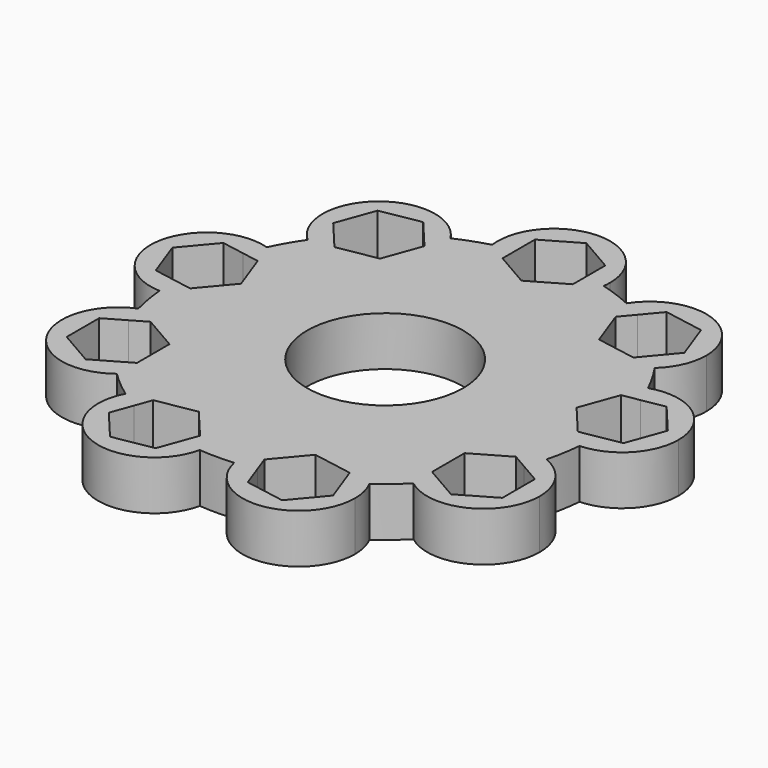
from build123d import *

# Parameters (mm, degrees)
F0_R     = 11.1
F1_DEPTH = 7


with BuildPart() as f1:
    # F0 (on Top) → F1 (new body)
    with BuildSketch(Plane.XY):
        with BuildLine():
            ThreePointArc((26.4810619211, 12.5997758673), (26.7965639879, 12.722787945), (27.1169892554, 12.8323378121))
            ThreePointArc((27.1169892554, 12.8323378121), (25.9807621135, 15), (24.6716251629, 17.0678326633))
            ThreePointArc((24.6716251629, 17.0678326633), (24.4165395613, 16.8451111751), (24.1522569436, 16.6333844092))
            ThreePointArc((24.1522569436, 16.6333844092), (23.8477512735, 13.7685056173), (26.4810619211, 12.5997758673))
        make_face()
        with BuildLine():
            ThreePointArc((37.5442325904, 5.20944533), (34.2655699708, 11.6676938031), (27.1169892554, 12.8323378121))
            ThreePointArc((27.1169892554, 12.8323378121), (27.7245361912, 11.4608068208), (28.2627653008, 10.0606211314))
            Line((28.2627653008, 10.0606211314), (31.5188868085, 10.6347632057))
            Line((31.5188868085, 10.6347632057), (35.2300228034, 6.2120035512))
            Line((35.2300228034, 6.2120035512), (33.2553685852, 0.7866856755))
            Line((33.2553685852, 0.7866856755), (29.9992470775, 0.2125436013))
            ThreePointArc((29.9992470775, 0.2125436013), (29.9998117688, 0.1062724674), (30, 0))
            ThreePointArc((30, 0), (29.9676207061, -1.3934522655), (29.8705527189, -2.7838965977))
            ThreePointArc((29.8705527189, -2.7838965977), (35.3153053255, -0.3308362049), (37.5442325904, 5.20944533))
        make_face()
        with BuildLine():
            ThreePointArc((26.4810619211, 12.5997758673), (26.8071092732, 12.6939524656), (27.1169892554, 12.8323378121))
            ThreePointArc((27.1169892554, 12.8323378121), (26.7965639879, 12.722787945), (26.4810619211, 12.5997758673))
        make_face()
        with BuildLine():
            ThreePointArc((28.2627653008, 10.0606211314), (27.7245361912, 11.4608068208), (27.1169892554, 12.8323378121))
            ThreePointArc((27.1169892554, 12.8323378121), (26.8071092732, 12.6939524656), (26.4810619211, 12.5997758673))
            ThreePointArc((26.4810619211, 12.5997758673), (21.6657705663, 3.8202599087), (29.1934356258, -2.7828598124))
            ThreePointArc((29.1934356258, -2.7828598124), (29.5320302103, -2.7598421048), (29.8705527189, -2.7838965977))
            ThreePointArc((29.8705527189, -2.7838965977), (29.9676207061, -1.3934522655), (30, 0))
            ThreePointArc((30, 0), (29.9998117688, 0.1062724674), (29.9992470775, 0.2125436013))
            Line((29.9992470775, 0.2125436013), (27.5695783722, -0.2158725457))
            Line((27.5695783722, -0.2158725457), (23.8584423773, 4.2068871088))
            Line((23.8584423773, 4.2068871088), (25.8330965955, 9.6322049845))
            Line((25.8330965955, 9.6322049845), (28.2627653008, 10.0606211314))
        make_face()
        with BuildLine():
            ThreePointArc((24.1522569436, 16.6333844092), (24.3968399462, 16.8686613998), (24.6716251629, 17.0678326633))
            ThreePointArc((24.6716251629, 17.0678326633), (23.7876179503, 18.2797492393), (22.8441361281, 19.445962166))
            Line((22.8441361281, 19.445962166), (21.2582825088, 17.5560154179))
            Line((21.2582825088, 17.5560154179), (15.5724922958, 18.5585736391))
            Line((15.5724922958, 18.5585736391), (13.5978380776, 23.9838915148))
            Line((13.5978380776, 23.9838915148), (15.1836916969, 25.8738382629))
            ThreePointArc((15.1836916969, 25.8738382629), (13.8713622659, 26.6004757267), (12.5243511843, 27.2606057785))
            ThreePointArc((12.5243511843, 27.2606057785), (12.375921732, 26.9554094398), (12.1866905202, 26.6736867819))
            ThreePointArc((12.1866905202, 26.6736867819), (14.1413274131, 16.8529777486), (24.1522569436, 16.6333844092))
        make_face()
        with BuildLine():
            ThreePointArc((22.8441361281, 19.445962166), (23.7876179503, 18.2797492393), (24.6716251629, 17.0678326633))
            ThreePointArc((24.6716251629, 17.0678326633), (26.6015506384, 19.7489947422), (27.2836282906, 22.9813332936))
            ThreePointArc((27.2836282906, 22.9813332936), (21.5113831189, 30.6648942145), (12.5243511843, 27.2606057785))
            ThreePointArc((12.5243511843, 27.2606057785), (13.8713622659, 26.6004757267), (15.1836916969, 25.8738382629))
            Line((15.1836916969, 25.8738382629), (17.3089740724, 28.4066511692))
            Line((17.3089740724, 28.4066511692), (22.9947642854, 27.404092948))
            Line((22.9947642854, 27.404092948), (24.9694185036, 21.9787750724))
            Line((24.9694185036, 21.9787750724), (22.8441361281, 19.445962166))
        make_face()
        with BuildLine():
            ThreePointArc((24.1522569436, 16.6333844092), (24.4165395613, 16.8451111751), (24.6716251629, 17.0678326633))
            ThreePointArc((24.6716251629, 17.0678326633), (24.3968399462, 16.8686613998), (24.1522569436, 16.6333844092))
        make_face()
        with BuildLine():
            ThreePointArc((29.0212866821, -7.6003236322), (29.5442325904, -5.20944533), (29.8705527189, -2.7838965977))
            ThreePointArc((29.8705527189, -2.7838965977), (29.5319831983, -2.790545292), (29.1934356258, -2.7828598124))
            ThreePointArc((29.1934356258, -2.7828598124), (27.1186621586, -4.7817518193), (28.3846501448, -7.3697102065))
            ThreePointArc((28.3846501448, -7.3697102065), (28.7054093893, -7.4782783073), (29.0212866821, -7.6003236322))
        make_face()
        with BuildLine():
            ThreePointArc((29.1934356258, -2.7828598124), (29.5319831983, -2.790545292), (29.8705527189, -2.7838965977))
            ThreePointArc((29.8705527189, -2.7838965977), (29.5320302103, -2.7598421048), (29.1934356258, -2.7828598124))
        make_face()
        with BuildLine():
            ThreePointArc((12.1866905202, 26.6736867819), (12.3493084858, 26.9707203199), (12.5243511843, 27.2606057785))
            ThreePointArc((12.5243511843, 27.2606057785), (10.2606042998, 28.1907786236), (7.9285699986, 28.9333333333))
            ThreePointArc((7.9285699986, 28.9333333333), (7.876325704, 28.5987529108), (7.8099688151, 28.2666832062))
            ThreePointArc((7.8099688151, 28.2666832062), (9.4182125292, 25.8763262557), (12.1866905202, 26.6736867819))
        make_face()
        with BuildLine():
            ThreePointArc((12.1866905202, 26.6736867819), (12.375921732, 26.9554094398), (12.5243511843, 27.2606057785))
            ThreePointArc((12.5243511843, 27.2606057785), (12.3493084858, 26.9707203199), (12.1866905202, 26.6736867819))
        make_face()
        with BuildLine():
            ThreePointArc((33.9807621135, -15), (32.6262190786, -10.5460240542), (29.0212866821, -7.6003236322))
            ThreePointArc((29.0212866821, -7.6003236322), (28.6050915087, -9.0415009693), (28.1173769149, -10.4600724388))
            Line((28.1173769149, -10.4600724388), (30.9807621135, -12.1132486541))
            Line((30.9807621135, -12.1132486541), (30.9807621135, -17.8867513459))
            Line((30.9807621135, -17.8867513459), (25.9807621135, -20.7735026919))
            Line((25.9807621135, -20.7735026919), (23.1173769149, -19.1203264767))
            ThreePointArc((23.1173769149, -19.1203264767), (22.1327152821, -20.2519854395), (21.0927166835, -21.3330097011))
            ThreePointArc((21.0927166835, -21.3330097011), (29.5089086921, -22.1799847994), (33.9807621135, -15))
        make_face()
        with BuildLine():
            ThreePointArc((28.3846501448, -7.3697102065), (28.6949524576, -7.5071459448), (29.0212866821, -7.6003236322))
            ThreePointArc((29.0212866821, -7.6003236322), (28.7054093893, -7.4782783073), (28.3846501448, -7.3697102065))
        make_face()
        with BuildLine():
            ThreePointArc((28.1173769149, -10.4600724388), (28.6050915087, -9.0415009693), (29.0212866821, -7.6003236322))
            ThreePointArc((29.0212866821, -7.6003236322), (28.6949524576, -7.5071459448), (28.3846501448, -7.3697102065))
            ThreePointArc((28.3846501448, -7.3697102065), (19.0525588833, -11), (20.5746813298, -20.8969729997))
            ThreePointArc((20.5746813298, -20.8969729997), (20.848855327, -21.0969848163), (21.0927166835, -21.3330097011))
            ThreePointArc((21.0927166835, -21.3330097011), (22.1327152821, -20.2519854395), (23.1173769149, -19.1203264767))
            Line((23.1173769149, -19.1203264767), (20.9807621135, -17.8867513459))
            Line((20.9807621135, -17.8867513459), (20.9807621135, -12.1132486541))
            Line((20.9807621135, -12.1132486541), (25.9807621135, -9.2264973081))
            Line((25.9807621135, -9.2264973081), (28.1173769149, -10.4600724388))
        make_face()
        with BuildLine():
            ThreePointArc((7.8099688151, 28.2666832062), (7.8460971307, 28.6041307611), (7.9285699986, 28.9333333333))
            ThreePointArc((7.9285699986, 28.9333333333), (6.4723762266, 29.2934864088), (5, 29.5803989155))
            Line((5, 29.5803989155), (5, 27.1132486541))
            Line((5, 27.1132486541), (0, 24.2264973081))
            Line((0, 24.2264973081), (-5, 27.1132486541))
            Line((-5, 27.1132486541), (-5, 29.5803989155))
            ThreePointArc((-5, 29.5803989155), (-6.4723762266, 29.2934864088), (-7.9285699986, 28.9333333333))
            ThreePointArc((-7.9285699986, 28.9333333333), (-7.8460971307, 28.6041307611), (-7.8099688151, 28.2666832062))
            ThreePointArc((-7.8099688151, 28.2666832062), (0, 22), (7.8099688151, 28.2666832062))
        make_face()
        with BuildLine():
            ThreePointArc((5, 29.5803989155), (6.4723762266, 29.2934864088), (7.9285699986, 28.9333333333))
            ThreePointArc((7.9285699986, 28.9333333333), (7.9821225244, 29.4654721656), (8, 30))
            ThreePointArc((8, 30), (-0.5345278344, 37.9821225244), (-7.9285699986, 28.9333333333))
            ThreePointArc((-7.9285699986, 28.9333333333), (-6.4723762266, 29.2934864088), (-5, 29.5803989155))
            Line((-5, 29.5803989155), (-5, 32.8867513459))
            Line((-5, 32.8867513459), (0, 35.7735026919))
            Line((0, 35.7735026919), (5, 32.8867513459))
            Line((5, 32.8867513459), (5, 29.5803989155))
        make_face()
        with BuildLine():
            ThreePointArc((7.8099688151, 28.2666832062), (7.876325704, 28.5987529108), (7.9285699986, 28.9333333333))
            ThreePointArc((7.9285699986, 28.9333333333), (7.8460971307, 28.6041307611), (7.8099688151, 28.2666832062))
        make_face()
        with BuildLine():
            ThreePointArc((21.0927166835, -21.3330097011), (20.848855327, -21.0969848163), (20.5746813298, -20.8969729997))
            ThreePointArc((20.5746813298, -20.8969729997), (20.8290836854, -21.1204746035), (21.0927166835, -21.3330097011))
        make_face()
        with BuildLine():
            ThreePointArc((21.0927166835, -21.3330097011), (20.8290836854, -21.1204746035), (20.5746813298, -20.8969729997))
            ThreePointArc((20.5746813298, -20.8969729997), (17.7004496294, -21.0945744364), (17.0067451056, -23.8908269695))
            ThreePointArc((17.0067451056, -23.8908269695), (17.1826747124, -24.1801750278), (17.3462015346, -24.4767091808))
            ThreePointArc((17.3462015346, -24.4767091808), (19.2836282906, -22.9813332936), (21.0927166835, -21.3330097011))
        make_face()
        with BuildLine():
            ThreePointArc((-12.1866905202, 26.6736867819), (-9.4182125292, 25.8763262557), (-7.8099688151, 28.2666832062))
            ThreePointArc((-7.8099688151, 28.2666832062), (-7.876325704, 28.5987529108), (-7.9285699986, 28.9333333333))
            ThreePointArc((-7.9285699986, 28.9333333333), (-10.2606042998, 28.1907786236), (-12.5243511843, 27.2606057785))
            ThreePointArc((-12.5243511843, 27.2606057785), (-12.3493084858, 26.9707203199), (-12.1866905202, 26.6736867819))
        make_face()
        with BuildLine():
            ThreePointArc((-7.9285699986, 28.9333333333), (-7.876325704, 28.5987529108), (-7.8099688151, 28.2666832062))
            ThreePointArc((-7.8099688151, 28.2666832062), (-7.8460971307, 28.6041307611), (-7.9285699986, 28.9333333333))
        make_face()
        with BuildLine():
            ThreePointArc((17.3462015346, -24.4767091808), (17.1561084783, -24.195567335), (17.0067451056, -23.8908269695))
            ThreePointArc((17.0067451056, -23.8908269695), (7.5244431532, -20.6732376573), (2.3288049774, -29.2331602765))
            ThreePointArc((2.3288049774, -29.2331602765), (2.410269327, -29.5626138654), (2.4453640925, -29.9001704754))
            ThreePointArc((2.4453640925, -29.9001704754), (3.9369182409, -29.7405560601), (5.4186291728, -29.5065832974))
            Line((5.4186291728, -29.5065832974), (4.5748140868, -27.1882204024))
            Line((4.5748140868, -27.1882204024), (8.2859500816, -22.7654607479))
            Line((8.2859500816, -22.7654607479), (13.9717402946, -23.7680189691))
            Line((13.9717402946, -23.7680189691), (14.8155553806, -26.0863818642))
            ThreePointArc((14.8155553806, -26.0863818642), (16.1010065991, -25.3131899707), (17.3462015346, -24.4767091808))
        make_face()
        with BuildLine():
            ThreePointArc((17.3462015346, -24.4767091808), (17.1826747124, -24.1801750278), (17.0067451056, -23.8908269695))
            ThreePointArc((17.0067451056, -23.8908269695), (17.1561084783, -24.195567335), (17.3462015346, -24.4767091808))
        make_face()
        with BuildLine():
            ThreePointArc((-12.5243511843, 27.2606057785), (-12.375921732, 26.9554094398), (-12.1866905202, 26.6736867819))
            ThreePointArc((-12.1866905202, 26.6736867819), (-12.3493084858, 26.9707203199), (-12.5243511843, 27.2606057785))
        make_face()
        with BuildLine():
            ThreePointArc((-11.2836282906, 22.9813332936), (-11.5126726813, 24.881925022), (-12.1866905202, 26.6736867819))
            ThreePointArc((-12.1866905202, 26.6736867819), (-12.375921732, 26.9554094398), (-12.5243511843, 27.2606057785))
            ThreePointArc((-12.5243511843, 27.2606057785), (-13.8713622659, 26.6004757267), (-15.1836916969, 25.8738382629))
            Line((-15.1836916969, 25.8738382629), (-13.5978380776, 23.9838915148))
            Line((-13.5978380776, 23.9838915148), (-15.5724922958, 18.5585736391))
            Line((-15.5724922958, 18.5585736391), (-21.2582825088, 17.5560154179))
            Line((-21.2582825088, 17.5560154179), (-22.8441361281, 19.445962166))
            ThreePointArc((-22.8441361281, 19.445962166), (-23.7876179503, 18.2797492393), (-24.6716251629, 17.0678326633))
            ThreePointArc((-24.6716251629, 17.0678326633), (-24.3968399462, 16.8686613998), (-24.1522569436, 16.6333844092))
            ThreePointArc((-24.1522569436, 16.6333844092), (-15.7444920417, 15.8067591172), (-11.2836282906, 22.9813332936))
        make_face()
        with BuildLine():
            ThreePointArc((18.2606042998, -28.1907786236), (18.0286406629, -26.2782904378), (17.3462015346, -24.4767091808))
            ThreePointArc((17.3462015346, -24.4767091808), (16.1010065991, -25.3131899707), (14.8155553806, -26.0863818642))
            Line((14.8155553806, -26.0863818642), (15.9463945128, -29.1933368448))
            Line((15.9463945128, -29.1933368448), (12.2352585179, -33.6160964992))
            Line((12.2352585179, -33.6160964992), (6.5494683049, -32.613538278))
            Line((6.5494683049, -32.613538278), (5.4186291728, -29.5065832974))
            ThreePointArc((5.4186291728, -29.5065832974), (3.9369182409, -29.7405560601), (2.4453640925, -29.9001704754))
            ThreePointArc((2.4453640925, -29.9001704754), (11.1202781746, -36.1444545554), (18.2606042998, -28.1907786236))
        make_face()
        with BuildLine():
            ThreePointArc((2.4453640925, -29.9001704754), (2.410269327, -29.5626138654), (2.3288049774, -29.2331602765))
            ThreePointArc((2.3288049774, -29.2331602765), (2.3800244266, -29.5678991202), (2.4453640925, -29.9001704754))
        make_face()
        with BuildLine():
            ThreePointArc((2.4453640925, -29.9001704754), (2.3800244266, -29.5678991202), (2.3288049774, -29.2331602765))
            ThreePointArc((2.3288049774, -29.2331602765), (0, -27.5370112346), (-2.3288049774, -29.2331602765))
            ThreePointArc((-2.3288049774, -29.2331602765), (-2.3800244266, -29.5678991202), (-2.4453640925, -29.9001704754))
            ThreePointArc((-2.4453640925, -29.9001704754), (0, -30), (2.4453640925, -29.9001704754))
        make_face()
        with BuildLine():
            ThreePointArc((-15.1836916969, 25.8738382629), (-13.8713622659, 26.6004757267), (-12.5243511843, 27.2606057785))
            ThreePointArc((-12.5243511843, 27.2606057785), (-24.4259291681, 29.1096888385), (-24.6716251629, 17.0678326633))
            ThreePointArc((-24.6716251629, 17.0678326633), (-23.7876179503, 18.2797492393), (-22.8441361281, 19.445962166))
            Line((-22.8441361281, 19.445962166), (-24.9694185036, 21.9787750724))
            Line((-24.9694185036, 21.9787750724), (-22.9947642854, 27.404092948))
            Line((-22.9947642854, 27.404092948), (-17.3089740724, 28.4066511692))
            Line((-17.3089740724, 28.4066511692), (-15.1836916969, 25.8738382629))
        make_face()
        with BuildLine():
            ThreePointArc((-2.4453640925, -29.9001704754), (-2.410269327, -29.5626138654), (-2.3288049774, -29.2331602765))
            ThreePointArc((-2.3288049774, -29.2331602765), (-2.2776726773, -28.7130838128), (-2.2606042998, -28.1907786236))
            ThreePointArc((-2.2606042998, -28.1907786236), (-8.0210872142, -20.51063779), (-17.0067451056, -23.8908269695))
            ThreePointArc((-17.0067451056, -23.8908269695), (-17.1561084783, -24.195567335), (-17.3462015346, -24.4767091808))
            ThreePointArc((-17.3462015346, -24.4767091808), (-16.1010065991, -25.3131899707), (-14.8155553806, -26.0863818642))
            Line((-14.8155553806, -26.0863818642), (-13.9717402946, -23.7680189691))
            Line((-13.9717402946, -23.7680189691), (-8.2859500816, -22.7654607479))
            Line((-8.2859500816, -22.7654607479), (-4.5748140868, -27.1882204024))
            Line((-4.5748140868, -27.1882204024), (-5.4186291728, -29.5065832974))
            ThreePointArc((-5.4186291728, -29.5065832974), (-3.9369182409, -29.7405560601), (-2.4453640925, -29.9001704754))
        make_face()
        with BuildLine():
            ThreePointArc((-2.4453640925, -29.9001704754), (-2.3800244266, -29.5678991202), (-2.3288049774, -29.2331602765))
            ThreePointArc((-2.3288049774, -29.2331602765), (-2.410269327, -29.5626138654), (-2.4453640925, -29.9001704754))
        make_face()
        with BuildLine():
            ThreePointArc((-24.1522569436, 16.6333844092), (-24.4165395613, 16.8451111751), (-24.6716251629, 17.0678326633))
            ThreePointArc((-24.6716251629, 17.0678326633), (-25.9807621135, 15), (-27.1169892554, 12.8323378121))
            ThreePointArc((-27.1169892554, 12.8323378121), (-26.7965639879, 12.722787945), (-26.4810619211, 12.5997758673))
            ThreePointArc((-26.4810619211, 12.5997758673), (-23.8477512735, 13.7685056173), (-24.1522569436, 16.6333844092))
        make_face()
        with BuildLine():
            ThreePointArc((-24.1522569436, 16.6333844092), (-24.3968399462, 16.8686613998), (-24.6716251629, 17.0678326633))
            ThreePointArc((-24.6716251629, 17.0678326633), (-24.4165395613, 16.8451111751), (-24.1522569436, 16.6333844092))
        make_face()
        with BuildLine():
            ThreePointArc((-17.3462015346, -24.4767091808), (-12.9967654464, -35.7083195899), (-2.4453640925, -29.9001704754))
            ThreePointArc((-2.4453640925, -29.9001704754), (-3.9369182409, -29.7405560601), (-5.4186291728, -29.5065832974))
            Line((-5.4186291728, -29.5065832974), (-6.5494683049, -32.613538278))
            Line((-6.5494683049, -32.613538278), (-12.2352585179, -33.6160964992))
            Line((-12.2352585179, -33.6160964992), (-15.9463945128, -29.1933368448))
            Line((-15.9463945128, -29.1933368448), (-14.8155553806, -26.0863818642))
            ThreePointArc((-14.8155553806, -26.0863818642), (-16.1010065991, -25.3131899707), (-17.3462015346, -24.4767091808))
        make_face()
        with BuildLine():
            ThreePointArc((-26.4810619211, 12.5997758673), (-26.8071092732, 12.6939524656), (-27.1169892554, 12.8323378121))
            ThreePointArc((-27.1169892554, 12.8323378121), (-27.7245361912, 11.4608068208), (-28.2627653008, 10.0606211314))
            Line((-28.2627653008, 10.0606211314), (-25.8330965955, 9.6322049845))
            Line((-25.8330965955, 9.6322049845), (-23.8584423773, 4.2068871088))
            Line((-23.8584423773, 4.2068871088), (-27.5695783722, -0.2158725457))
            Line((-27.5695783722, -0.2158725457), (-29.9992470775, 0.2125436013))
            ThreePointArc((-29.9992470775, 0.2125436013), (-29.972368865, -1.287285756), (-29.8705527189, -2.7838965977))
            ThreePointArc((-29.8705527189, -2.7838965977), (-29.5320302103, -2.7598421048), (-29.1934356258, -2.7828598124))
            ThreePointArc((-29.1934356258, -2.7828598124), (-23.7646834853, -0.3219931937), (-21.5442325904, 5.20944533))
            ThreePointArc((-21.5442325904, 5.20944533), (-22.8919636032, 9.6532407036), (-26.4810619211, 12.5997758673))
        make_face()
        with BuildLine():
            ThreePointArc((-28.2627653008, 10.0606211314), (-27.7245361912, 11.4608068208), (-27.1169892554, 12.8323378121))
            ThreePointArc((-27.1169892554, 12.8323378121), (-37.4226946145, 6.5986307513), (-29.8705527189, -2.7838965977))
            ThreePointArc((-29.8705527189, -2.7838965977), (-29.972368865, -1.287285756), (-29.9992470775, 0.2125436013))
            Line((-29.9992470775, 0.2125436013), (-33.2553685852, 0.7866856755))
            Line((-33.2553685852, 0.7866856755), (-35.2300228034, 6.2120035512))
            Line((-35.2300228034, 6.2120035512), (-31.5188868085, 10.6347632057))
            Line((-31.5188868085, 10.6347632057), (-28.2627653008, 10.0606211314))
        make_face()
        with BuildLine():
            ThreePointArc((-26.4810619211, 12.5997758673), (-26.7965639879, 12.722787945), (-27.1169892554, 12.8323378121))
            ThreePointArc((-27.1169892554, 12.8323378121), (-26.8071092732, 12.6939524656), (-26.4810619211, 12.5997758673))
        make_face()
        with BuildLine():
            ThreePointArc((-21.0927166835, -21.3330097011), (-19.2836282906, -22.9813332936), (-17.3462015346, -24.4767091808))
            ThreePointArc((-17.3462015346, -24.4767091808), (-17.1826747124, -24.1801750278), (-17.0067451056, -23.8908269695))
            ThreePointArc((-17.0067451056, -23.8908269695), (-17.7004496294, -21.0945744364), (-20.5746813298, -20.8969729997))
            ThreePointArc((-20.5746813298, -20.8969729997), (-20.8290836854, -21.1204746035), (-21.0927166835, -21.3330097011))
        make_face()
        with BuildLine():
            ThreePointArc((-17.0067451056, -23.8908269695), (-17.1826747124, -24.1801750278), (-17.3462015346, -24.4767091808))
            ThreePointArc((-17.3462015346, -24.4767091808), (-17.1561084783, -24.195567335), (-17.0067451056, -23.8908269695))
        make_face()
        with BuildLine():
            ThreePointArc((-29.1934356258, -2.7828598124), (-29.5319831983, -2.790545292), (-29.8705527189, -2.7838965977))
            ThreePointArc((-29.8705527189, -2.7838965977), (-29.5442325904, -5.20944533), (-29.0212866821, -7.6003236322))
            ThreePointArc((-29.0212866821, -7.6003236322), (-28.7054093893, -7.4782783073), (-28.3846501448, -7.3697102065))
            ThreePointArc((-28.3846501448, -7.3697102065), (-27.1186621586, -4.7817518193), (-29.1934356258, -2.7828598124))
        make_face()
        with BuildLine():
            ThreePointArc((-29.1934356258, -2.7828598124), (-29.5320302103, -2.7598421048), (-29.8705527189, -2.7838965977))
            ThreePointArc((-29.8705527189, -2.7838965977), (-29.5319831983, -2.790545292), (-29.1934356258, -2.7828598124))
        make_face()
        with BuildLine():
            ThreePointArc((-29.0212866821, -7.6003236322), (-32.9089653438, -19), (-21.0927166835, -21.3330097011))
            ThreePointArc((-21.0927166835, -21.3330097011), (-22.1327152821, -20.2519854395), (-23.1173769149, -19.1203264767))
            Line((-23.1173769149, -19.1203264767), (-25.9807621135, -20.7735026919))
            Line((-25.9807621135, -20.7735026919), (-30.9807621135, -17.8867513459))
            Line((-30.9807621135, -17.8867513459), (-30.9807621135, -12.1132486541))
            Line((-30.9807621135, -12.1132486541), (-28.1173769149, -10.4600724388))
            ThreePointArc((-28.1173769149, -10.4600724388), (-28.6050915087, -9.0415009693), (-29.0212866821, -7.6003236322))
        make_face()
        with BuildLine():
            ThreePointArc((-20.5746813298, -20.8969729997), (-20.848855327, -21.0969848163), (-21.0927166835, -21.3330097011))
            ThreePointArc((-21.0927166835, -21.3330097011), (-20.8290836854, -21.1204746035), (-20.5746813298, -20.8969729997))
        make_face()
        with BuildLine():
            ThreePointArc((-23.1173769149, -19.1203264767), (-22.1327152821, -20.2519854395), (-21.0927166835, -21.3330097011))
            ThreePointArc((-21.0927166835, -21.3330097011), (-20.848855327, -21.0969848163), (-20.5746813298, -20.8969729997))
            ThreePointArc((-20.5746813298, -20.8969729997), (-18.6578990713, -18.2211297498), (-17.9807621135, -15))
            ThreePointArc((-17.9807621135, -15), (-21.2495415654, -8.5489882867), (-28.3846501448, -7.3697102065))
            ThreePointArc((-28.3846501448, -7.3697102065), (-28.6949524576, -7.5071459448), (-29.0212866821, -7.6003236322))
            ThreePointArc((-29.0212866821, -7.6003236322), (-28.6050915087, -9.0415009693), (-28.1173769149, -10.4600724388))
            Line((-28.1173769149, -10.4600724388), (-25.9807621135, -9.2264973081))
            Line((-25.9807621135, -9.2264973081), (-20.9807621135, -12.1132486541))
            Line((-20.9807621135, -12.1132486541), (-20.9807621135, -17.8867513459))
            Line((-20.9807621135, -17.8867513459), (-23.1173769149, -19.1203264767))
        make_face()
        with BuildLine():
            ThreePointArc((-28.3846501448, -7.3697102065), (-28.7054093893, -7.4782783073), (-29.0212866821, -7.6003236322))
            ThreePointArc((-29.0212866821, -7.6003236322), (-28.6949524576, -7.5071459448), (-28.3846501448, -7.3697102065))
        make_face()
        with BuildLine():
            ThreePointArc((29.1934356258, -2.7828598124), (21.6657705663, 3.8202599087), (26.4810619211, 12.5997758673))
            ThreePointArc((26.4810619211, 12.5997758673), (23.8477512735, 13.7685056173), (24.1522569436, 16.6333844092))
            ThreePointArc((24.1522569436, 16.6333844092), (14.1413274131, 16.8529777486), (12.1866905202, 26.6736867819))
            ThreePointArc((12.1866905202, 26.6736867819), (9.4182125292, 25.8763262557), (7.8099688151, 28.2666832062))
            ThreePointArc((7.8099688151, 28.2666832062), (0, 22), (-7.8099688151, 28.2666832062))
            ThreePointArc((-7.8099688151, 28.2666832062), (-9.4182125292, 25.8763262557), (-12.1866905202, 26.6736867819))
            ThreePointArc((-12.1866905202, 26.6736867819), (-11.5126726813, 24.881925022), (-11.2836282906, 22.9813332936))
            ThreePointArc((-11.2836282906, 22.9813332936), (-15.7444920417, 15.8067591172), (-24.1522569436, 16.6333844092))
            ThreePointArc((-24.1522569436, 16.6333844092), (-23.8477512735, 13.7685056173), (-26.4810619211, 12.5997758673))
            ThreePointArc((-26.4810619211, 12.5997758673), (-22.8919636032, 9.6532407036), (-21.5442325904, 5.20944533))
            ThreePointArc((-21.5442325904, 5.20944533), (-23.7646834853, -0.3219931937), (-29.1934356258, -2.7828598124))
            ThreePointArc((-29.1934356258, -2.7828598124), (-27.1186621586, -4.7817518193), (-28.3846501448, -7.3697102065))
            ThreePointArc((-28.3846501448, -7.3697102065), (-21.2495415654, -8.5489882867), (-17.9807621135, -15))
            ThreePointArc((-17.9807621135, -15), (-18.6578990713, -18.2211297498), (-20.5746813298, -20.8969729997))
            ThreePointArc((-20.5746813298, -20.8969729997), (-17.7004496294, -21.0945744364), (-17.0067451056, -23.8908269695))
            ThreePointArc((-17.0067451056, -23.8908269695), (-8.0210872142, -20.51063779), (-2.2606042998, -28.1907786236))
            ThreePointArc((-2.2606042998, -28.1907786236), (-2.2776726773, -28.7130838128), (-2.3288049774, -29.2331602765))
            ThreePointArc((-2.3288049774, -29.2331602765), (0, -27.5370112346), (2.3288049774, -29.2331602765))
            ThreePointArc((2.3288049774, -29.2331602765), (7.5244431532, -20.6732376573), (17.0067451056, -23.8908269695))
            ThreePointArc((17.0067451056, -23.8908269695), (17.7004496294, -21.0945744364), (20.5746813298, -20.8969729997))
            ThreePointArc((20.5746813298, -20.8969729997), (19.0525588833, -11), (28.3846501448, -7.3697102065))
            ThreePointArc((28.3846501448, -7.3697102065), (27.1186621586, -4.7817518193), (29.1934356258, -2.7828598124))
        make_face()
        Circle(F0_R, mode=Mode.SUBTRACT)
    extrude(amount=F1_DEPTH)


solid = f1.part
